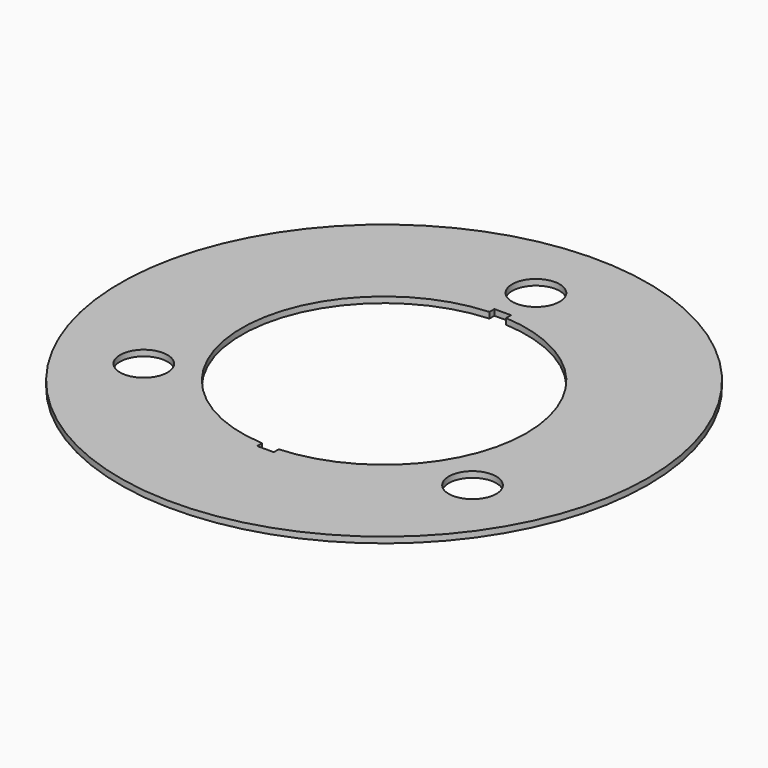
from build123d import *

# Parameters (mm, degrees)
F0_R     = 222.5
F0_R_2   = 20
F1_DEPTH = 5


with BuildPart() as f1:
    # F0 (on Top) → F1 (new body)
    with BuildSketch(Plane.XY):
        Circle(F0_R)
        with Locations((-138.564065, -80)):
            Circle(F0_R_2, mode=Mode.SUBTRACT)
        with Locations((138.564065, -80)):
            Circle(F0_R_2, mode=Mode.SUBTRACT)
        with BuildLine():
            ThreePointArc((7, 119.795659), (87.292611, 82.340755), (120, 0))
            ThreePointArc((120, 0), (87.292611, -82.340755), (7, -119.795659))
            Line((7, -119.795659), (7, -125))
            Line((7, -125), (-7, -125))
            Line((-7, -125), (-7, -119.795659))
            ThreePointArc((-7, -119.795659), (-120, 0), (-7, 119.795659))
            Line((-7, 119.795659), (-7, 125))
            Line((-7, 125), (7, 125))
            Line((7, 125), (7, 119.795659))
        make_face(mode=Mode.SUBTRACT)
        with Locations((0, 160)):
            Circle(F0_R_2, mode=Mode.SUBTRACT)
    extrude(amount=F1_DEPTH)


solid = f1.part
